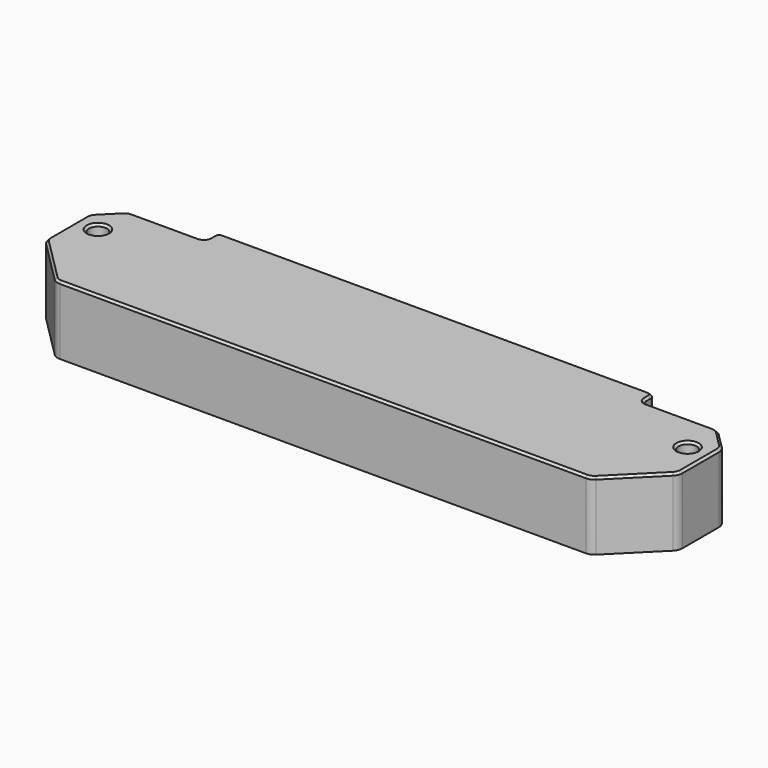
from build123d import *

# Parameters (mm, degrees)
SKETCH003_W     = 116
SKETCH003_H     = 23
SKETCH003_R     = 1.65
PAD002_DEPTH    = 12.5
SKETCH005_W     = 96.3
SKETCH005_H     = 19.15
POCKET001_DEPTH = 9.5
POCKET002_DEPTH = 5
CHAMFER001_SIZE = 9
FILLET002_R     = 4
CHAMFER002_SIZE = 4
FILLET003_R     = 2
FILLET004_R     = 1
FILLET005_R     = 1.5
SKETCH007_W     = 80
SKETCH007_H     = 3
PAD003_DEPTH    = 3
FILLET006_R     = 1
CHAMFER003_SIZE = 0.4


with BuildPart() as part:
    # Sketch003 → Pad002 (new body)
    with BuildSketch(Plane.XY):
        with Locations((0, -10.5)):
            Rectangle(SKETCH003_W, SKETCH003_H)
        with Locations((-54, -6)):
            Circle(SKETCH003_R, mode=Mode.SUBTRACT)
        with Locations((54, -6)):
            Circle(SKETCH003_R, mode=Mode.SUBTRACT)
    extrude(amount=-PAD002_DEPTH)

    # Sketch005 (on Face8 of Pad002) → Pocket001 (cut)
    with BuildSketch(Plane(origin=(0, 0, -12.5), x_dir=(1, 0, 0), z_dir=(0, 0, -1))):
        with Locations((0, 9.575)):
            Rectangle(SKETCH005_W, SKETCH005_H)
    extrude(amount=-POCKET001_DEPTH, mode=Mode.SUBTRACT)

    # Sketch006 (on Face1 of Pocket001) → Pocket002 (cut)
    with BuildSketch(Plane(origin=(0, 1, 0), x_dir=(-1, 0, 0), z_dir=(0, 1, 0))):
        Polygon((-48.15, -12.5), (48.15, -12.5), (48.15, -4.5), (40.5, -4.5), (40.5, -7.5), (-40.5, -7.5), (-40.5, -4.5), (-48.15, -4.5), align=None)
    extrude(amount=-POCKET002_DEPTH, mode=Mode.SUBTRACT)

    # Chamfer001
    chamfer001_edges = [part.edges().sort_by_distance(p)[0] for p in [
        (58, -22, -6.25),
        (-58, -22, -6.25),
    ]]
    chamfer(chamfer001_edges, length=CHAMFER001_SIZE)

    # Fillet002
    fillet002_edges = [part.edges().sort_by_distance(p)[0] for p in [
        (48.15, -19.15, -7.75),
        (-48.15, -19.15, -7.75),
    ]]
    fillet(fillet002_edges, radius=FILLET002_R)

    # Chamfer002
    chamfer002_edges = [part.edges().sort_by_distance(p)[0] for p in [
        (58, 1, -6.25),
        (-58, 1, -6.25),
    ]]
    chamfer(chamfer002_edges, length=CHAMFER002_SIZE)

    # Fillet003
    fillet003_edges = [part.edges().sort_by_distance(p)[0] for p in [
        (54, 1, -6.25),
        (58, -3, -6.25),
        (58, -13, -6.25),
        (49, -22, -6.25),
        (-49, -22, -6.25),
        (-58, -13, -6.25),
        (-58, -3, -6.25),
        (-54, 1, -6.25),
    ]]
    fillet(fillet003_edges, radius=FILLET003_R)

    # Fillet004
    fillet004_edges = [part.edges().sort_by_distance(p)[0] for p in [
        (-40.5, 0.5, -7.5),
        (40.5, 0.5, -7.5),
    ]]
    fillet(fillet004_edges, radius=FILLET004_R)

    # Fillet005
    fillet005_edges = [part.edges().sort_by_distance(p)[0] for p in [
        (48.15, 0.5, -4.5),
        (40.5, 0.5, -4.5),
        (-48.15, 0.5, -4.5),
        (-40.5, 0.5, -4.5),
    ]]
    fillet(fillet005_edges, radius=FILLET005_R)

    # Sketch007 (on Face1 of Fillet005) → Pad003 (join)
    with BuildSketch(Plane(origin=(0, 1, 0), x_dir=(-1, 0, 0), z_dir=(0, 1, 0))):
        with Locations((0, -1.5)):
            Rectangle(SKETCH007_W, SKETCH007_H)
    extrude(amount=PAD003_DEPTH)

    # Fillet006
    fillet006_edges = [part.edges().sort_by_distance(p)[0] for p in [
        (40, 4, -1.5),
        (40, 1, -1.5),
        (-40, 4, -1.5),
        (-40, 1, -1.5),
    ]]
    fillet(fillet006_edges, radius=FILLET006_R)

    # Chamfer003
    chamfer003_edges = [part.edges().sort_by_distance(p)[0] for p in [
        (47.085786, 1, 0),
        (40.292893, 1.292893, 0),
        (53.93694, 0.847759, 0),
        (40, 2.5, 0),
        (56, -1, 0),
        (39.707107, 3.707107, 0),
        (57.847759, -3.06306, 0),
        (0, 4, 0),
        (58, -8, 0),
        (-39.707107, 3.707107, 0),
        (57.847759, -12.93694, 0),
        (-40, 2.5, 0),
        (53.5, -17.5, 0),
        (-40.292893, 1.292893, 0),
        (48.93694, -21.847759, 0),
        (-47.085786, 1, 0),
        (0, -22, 0),
        (-53.93694, 0.847759, 0),
        (-48.93694, -21.847759, 0),
        (-56, -1, 0),
        (-53.5, -17.5, 0),
        (-57.847759, -3.06306, 0),
        (-57.847759, -12.93694, 0),
        (-58, -8, 0),
        (52.35, -6, 0),
        (-55.65, -6, 0),
        (52.35, -6, -12.5),
        (-55.65, -6, -12.5),
    ]]
    chamfer(chamfer003_edges, length=CHAMFER003_SIZE)


with BuildPart() as part_1:
    # Body001 placement: moved
    add(part.part.moved(Location((0, 0, 12.5))))


solid = part_1.part
